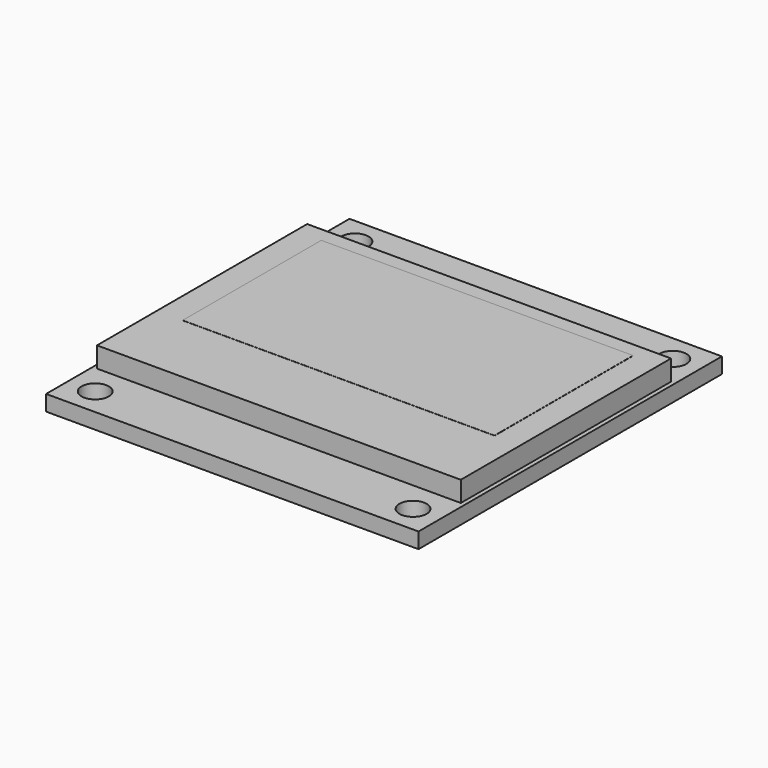
from build123d import *

# Parameters (mm, degrees)
F0_W     = 27.3
F0_H     = 27.8
F0_W_2   = 26.67
F0_H_2   = 19.26
F0_W_3   = 22.86
F0_H_3   = 12.7
F1_DEPTH = 1.143
F2_DEPTH = 1.5
F3_DEPTH = 1.51
F5_D     = 2


with BuildPart() as f1:
    # F0 (on Top) → F1 (new body)
    with BuildSketch(Plane.XY):
        with Locations((0, -2.191441)):
            Rectangle(F0_W, F0_H)
        with Locations((0, -2.191441)):
            Rectangle(F0_W_2, F0_H_2, mode=Mode.SUBTRACT)
        with Locations((0, -2.191441)):
            Rectangle(F0_W_2, F0_H_2)
        Rectangle(F0_W_3, F0_H_3, mode=Mode.SUBTRACT)
        Rectangle(F0_W_3, F0_H_3)
    extrude(amount=-F1_DEPTH)

    # F0 (on Top) → F2 (join)
    with BuildSketch(Plane.XY):
        with Locations((0, -2.191441)):
            Rectangle(F0_W_2, F0_H_2)
        Rectangle(F0_W_3, F0_H_3, mode=Mode.SUBTRACT)
        Rectangle(F0_W_3, F0_H_3)
    extrude(amount=F2_DEPTH)

    # F0 (on Top) → F3 (join)
    with BuildSketch(Plane.XY):
        Rectangle(F0_W_3, F0_H_3)
    extrude(amount=F3_DEPTH)

    # F5 (through all)
    with Locations(Plane.XY):
        with Locations((-11.65, 9.708559), (11.65, 9.708559), (11.65, -14.091441), (-11.65, -14.091441)):
            Hole(F5_D / 2)


solid = f1.part
